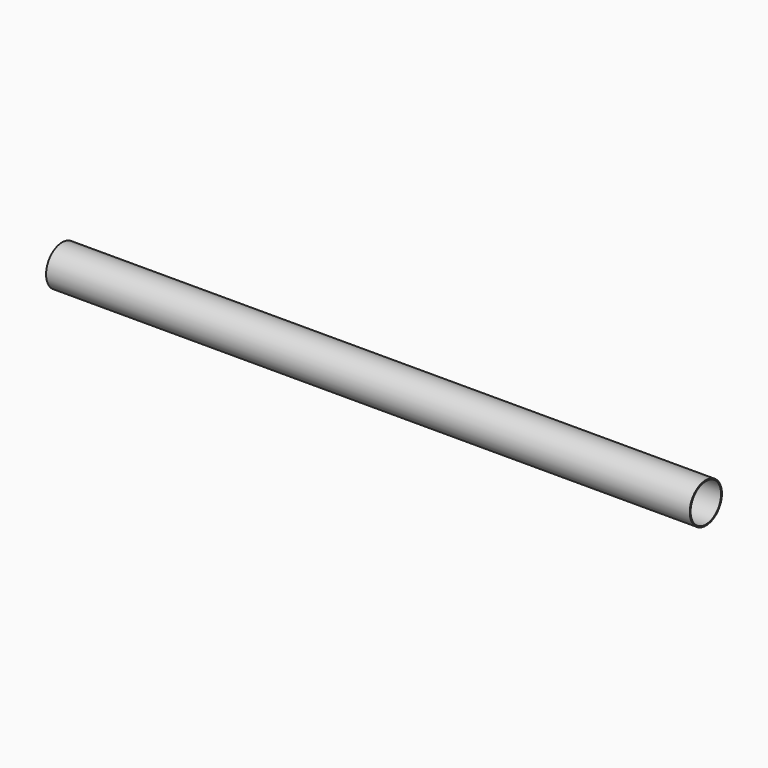
from build123d import *

# Parameters (mm, degrees)
F2_R   = 19.05
F2_R_2 = 18.05


with BuildPart() as f3:
    # F3: sweep along a path in F0
    with BuildLine(Plane.XY) as f3_path:
        Line((-304.8, 0), (304.8, 0))
    # F2 (on face) → F3 (sweep)
    with BuildSketch(Plane.YZ.offset(-304.8)):
        Circle(F2_R)
        Circle(F2_R_2, mode=Mode.SUBTRACT)
    sweep(path=f3_path.line)


solid = f3.part
